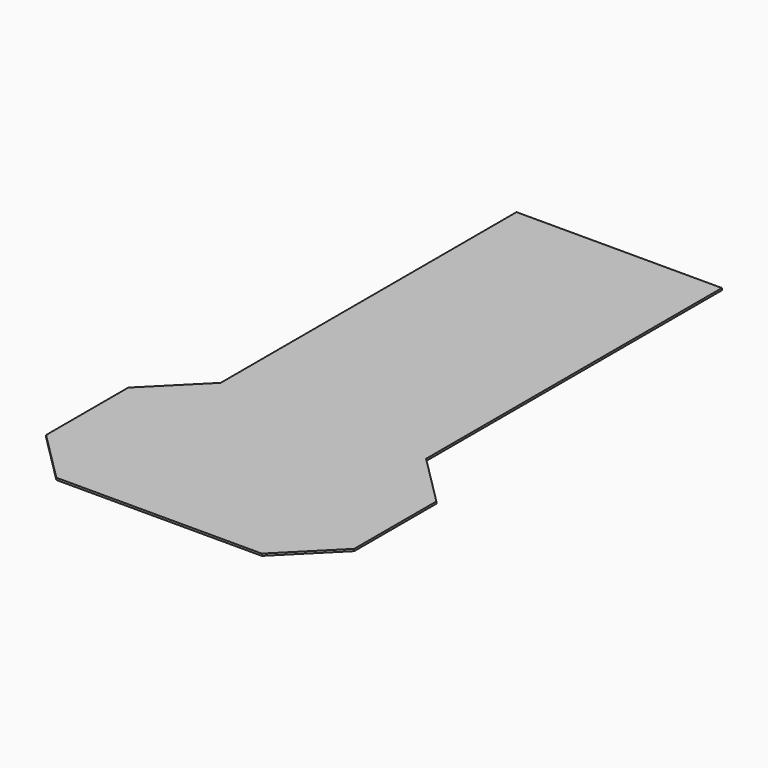
from build123d import *

# Parameters (mm, degrees)
F0_W     = 100
F0_H     = 160
F0_H_2   = 20
F0_H_3   = 100
F1_DEPTH = 1


with BuildPart() as f1:
    # F0 (on Top) → F1 (new body)
    with BuildSketch(Plane.XY):
        Rectangle(F0_W, F0_H)
        with Locations((0, -90)):
            Rectangle(F0_W, F0_H_2)
        with Locations((0, -150)):
            Rectangle(F0_W, F0_H_3)
        Polygon((75, -125), (50, -100), (50, -200), (75, -175), align=None)
        Polygon((-50, -200), (-50, -100), (-75, -125), (-75, -175), align=None)
    extrude(amount=-F1_DEPTH)


solid = f1.part
